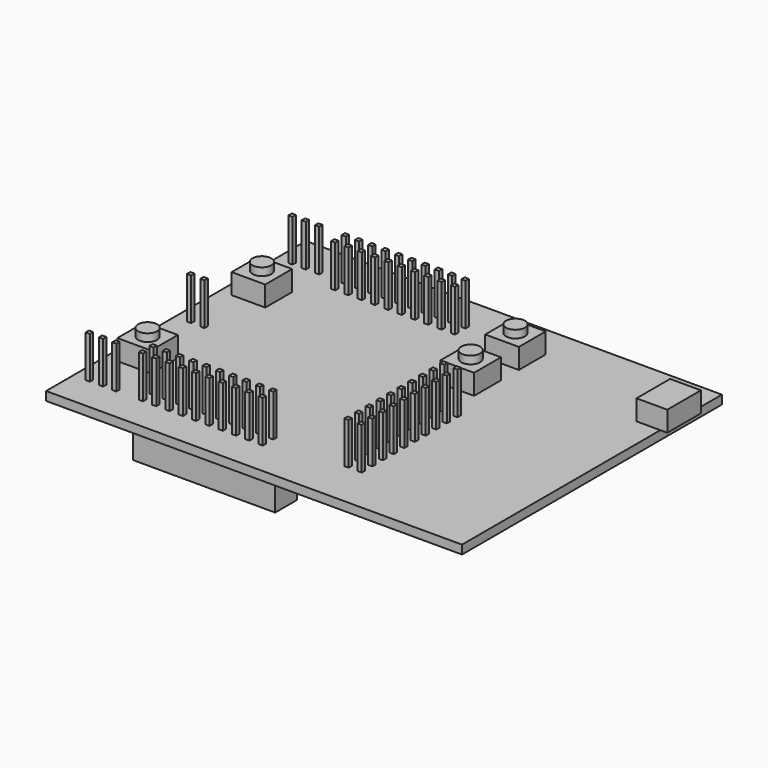
from build123d import *

# Parameters (mm, degrees)
F0_W      = 75.438
F0_H      = 58.928
F1_DEPTH  = 1.5875
F3_W      = 0.762
F3_H      = 0.762
F4_DEPTH  = 7.62
F5_W      = 6.096
F5_H      = 6.096
F5_W_2    = 5.588
F5_H_2    = 7.62
F6_DEPTH  = 3.683
F7_R      = 1.7145
F8_DEPTH  = 1.397
F9_W      = 25.8318
F9_H      = 4.953
F10_DEPTH = 8.128


with BuildPart() as f1:
    # F0 (on Top) → F1 (new body)
    with BuildSketch(Plane.XY):
        Rectangle(F0_W, F0_H)
    extrude(amount=F1_DEPTH)

    # F3 (on face) → F4 (join)
    with BuildSketch(Plane.XY.offset(1.5875)):
        with Locations((-13.335, -20.5994)):
            Rectangle(F3_W, F3_H)
        with Locations((-15.748, -20.5994)):
            Rectangle(F3_W, F3_H)
        with Locations((-18.161, -20.5994)):
            Rectangle(F3_W, F3_H)
        with Locations((-20.574, -20.5994)):
            Rectangle(F3_W, F3_H)
        with Locations((-22.987, -20.5994)):
            Rectangle(F3_W, F3_H)
        with Locations((-25.4, -20.5994)):
            Rectangle(F3_W, F3_H)
        with Locations((-10.922, -20.5994)):
            Rectangle(F3_W, F3_H)
        with Locations((-8.509, -20.5994)):
            Rectangle(F3_W, F3_H)
        with Locations((-6.096, -20.5994)):
            Rectangle(F3_W, F3_H)
        with Locations((-3.683, -20.5994)):
            Rectangle(F3_W, F3_H)
        with Locations((-13.335, -22.987)):
            Rectangle(F3_W, F3_H)
        with Locations((-15.748, -22.987)):
            Rectangle(F3_W, F3_H)
        with Locations((-18.161, -22.987)):
            Rectangle(F3_W, F3_H)
        with Locations((-20.574, -22.987)):
            Rectangle(F3_W, F3_H)
        with Locations((-22.987, -22.987)):
            Rectangle(F3_W, F3_H)
        with Locations((-25.4, -22.987)):
            Rectangle(F3_W, F3_H)
        with Locations((-10.922, -22.987)):
            Rectangle(F3_W, F3_H)
        with Locations((-8.509, -22.987)):
            Rectangle(F3_W, F3_H)
        with Locations((-6.096, -22.987)):
            Rectangle(F3_W, F3_H)
        with Locations((-3.683, -22.987)):
            Rectangle(F3_W, F3_H)
        with Locations((-13.335, 22.987)):
            Rectangle(F3_W, F3_H)
        with Locations((-15.748, 22.987)):
            Rectangle(F3_W, F3_H)
        with Locations((-18.161, 22.987)):
            Rectangle(F3_W, F3_H)
        with Locations((-20.574, 22.987)):
            Rectangle(F3_W, F3_H)
        with Locations((-22.987, 22.987)):
            Rectangle(F3_W, F3_H)
        with Locations((-25.4, 22.987)):
            Rectangle(F3_W, F3_H)
        with Locations((-10.922, 22.987)):
            Rectangle(F3_W, F3_H)
        with Locations((-8.509, 22.987)):
            Rectangle(F3_W, F3_H)
        with Locations((-6.096, 22.987)):
            Rectangle(F3_W, F3_H)
        with Locations((-3.683, 22.987)):
            Rectangle(F3_W, F3_H)
        with Locations((-13.335, 20.5994)):
            Rectangle(F3_W, F3_H)
        with Locations((-15.748, 20.5994)):
            Rectangle(F3_W, F3_H)
        with Locations((-18.161, 20.5994)):
            Rectangle(F3_W, F3_H)
        with Locations((-20.574, 20.5994)):
            Rectangle(F3_W, F3_H)
        with Locations((-22.987, 20.5994)):
            Rectangle(F3_W, F3_H)
        with Locations((-25.4, 20.5994)):
            Rectangle(F3_W, F3_H)
        with Locations((-10.922, 20.5994)):
            Rectangle(F3_W, F3_H)
        with Locations((-8.509, 20.5994)):
            Rectangle(F3_W, F3_H)
        with Locations((-6.096, 20.5994)):
            Rectangle(F3_W, F3_H)
        with Locations((-3.683, 20.5994)):
            Rectangle(F3_W, F3_H)
        with Locations((12.446, -11.049)):
            Rectangle(F3_W, F3_H)
        with Locations((12.446, -8.636)):
            Rectangle(F3_W, F3_H)
        with Locations((12.446, -6.223)):
            Rectangle(F3_W, F3_H)
        with Locations((12.446, -3.81)):
            Rectangle(F3_W, F3_H)
        with Locations((12.446, -1.397)):
            Rectangle(F3_W, F3_H)
        with Locations((12.446, 1.016)):
            Rectangle(F3_W, F3_H)
        with Locations((12.446, -13.462)):
            Rectangle(F3_W, F3_H)
        with Locations((12.446, -15.875)):
            Rectangle(F3_W, F3_H)
        with Locations((12.446, -18.288)):
            Rectangle(F3_W, F3_H)
        with Locations((12.446, -20.701)):
            Rectangle(F3_W, F3_H)
        with Locations((10.0584, -11.049)):
            Rectangle(F3_W, F3_H)
        with Locations((10.0584, -8.636)):
            Rectangle(F3_W, F3_H)
        with Locations((10.0584, -6.223)):
            Rectangle(F3_W, F3_H)
        with Locations((10.0584, -3.81)):
            Rectangle(F3_W, F3_H)
        with Locations((10.0584, -1.397)):
            Rectangle(F3_W, F3_H)
        with Locations((10.0584, 1.016)):
            Rectangle(F3_W, F3_H)
        with Locations((10.0584, -13.462)):
            Rectangle(F3_W, F3_H)
        with Locations((10.0584, -15.875)):
            Rectangle(F3_W, F3_H)
        with Locations((10.0584, -18.288)):
            Rectangle(F3_W, F3_H)
        with Locations((10.0584, -20.701)):
            Rectangle(F3_W, F3_H)
        with Locations((-30.226, -22.987)):
            Rectangle(F3_W, F3_H)
        with Locations((-32.639, -22.987)):
            Rectangle(F3_W, F3_H)
        with Locations((-35.052, -22.987)):
            Rectangle(F3_W, F3_H)
        with Locations((-30.226, 22.987)):
            Rectangle(F3_W, F3_H)
        with Locations((-32.639, 22.987)):
            Rectangle(F3_W, F3_H)
        with Locations((-35.052, 22.987)):
            Rectangle(F3_W, F3_H)
        with Locations((-32.639, 0)):
            Rectangle(F3_W, F3_H)
        with Locations((-35.052, 0)):
            Rectangle(F3_W, F3_H)
    extrude(amount=F4_DEPTH)

    # F5 (on face) → F6 (join)
    with BuildSketch(Plane.XY.offset(1.5875)):
        with Locations((-32.512, -12.954)):
            Rectangle(F5_W, F5_H)
        with Locations((-32.512, 12.954)):
            Rectangle(F5_W, F5_H)
        with Locations((7.493, 10.287)):
            Rectangle(F5_W, F5_H)
        with Locations((7.493, 20.447)):
            Rectangle(F5_W, F5_H)
        with Locations((36.195, 19.304)):
            Rectangle(F5_W_2, F5_H_2)
    extrude(amount=F6_DEPTH)

    # F7 (on face) → F8 (join)
    with BuildSketch(Plane.XY.offset(5.2705)):
        with Locations((-32.512, 12.954)):
            Circle(F7_R)
        with Locations((-32.512, -12.954)):
            Circle(F7_R)
        with Locations((7.493, 10.287)):
            Circle(F7_R)
        with Locations((7.493, 20.447)):
            Circle(F7_R)
    extrude(amount=F8_DEPTH)

    # F9 (on face) → F10 (join)
    with BuildSketch(Plane(origin=(0, 0, 0), x_dir=(1, 0, 0), z_dir=(0, 0, -1))):
        with Locations((-13.6525, 21.2725)):
            Rectangle(F9_W, F9_H)
        with Locations((-13.6525, -21.2725)):
            Rectangle(F9_W, F9_H)
    extrude(amount=F10_DEPTH)


solid = f1.part
